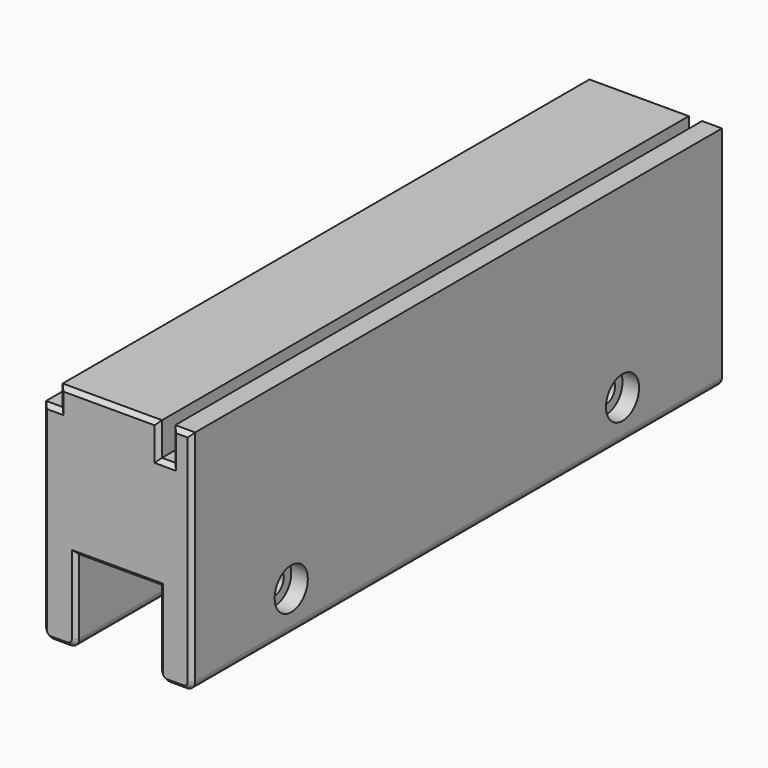
from build123d import *

# Parameters (mm, degrees)
PAD119_DEPTH            = 80
SKETCH530_R             = 2.75
POCKET373_DEPTH         = 8.001
SKETCH531_R             = 5
POCKET374_DEPTH         = 4.001
SKETCH538_W             = 3.2
SKETCH538_H             = 8
POCKET380_DEPTH         = 80.001
POCKET380_DEPTH_BACK    = 80.001
CHAMFER035_SIZE         = 1
BODY190_PLACEMENT_ANGLE = 90


with BuildPart() as part:
    # Sketch529 → Pad119 (new body, symmetric)
    with BuildSketch(Plane.YZ):
        with BuildLine():
            Line((-8, 2), (-8, 55))
            Line((-8, 55), (24, 55))
            Line((24, 55), (24, 50))
            Line((24, 50), (28, 50))
            Line((28, 50), (28, 2))
            ThreePointArc((26, 0), (27.414214, 0.585786), (28, 2))
            Line((26, 0), (22, 0))
            ThreePointArc((20, 2), (20.585786, 0.585786), (22, 0))
            Line((20, 2), (20, 20))
            Line((20, 20), (0, 20))
            Line((0, 20), (0, 2))
            ThreePointArc((-2, 0), (-0.585786, 0.585786), (0, 2))
            Line((-2, 0), (-6, 0))
            ThreePointArc((-8, 2), (-7.414214, 0.585786), (-6, 0))
        make_face()
    extrude(amount=PAD119_DEPTH, both=True)

    # Sketch530 → Pocket373 (cut, through all)
    with BuildSketch(Plane.XZ):
        with Locations((-50, 10)):
            Circle(SKETCH530_R)
        with Locations((50, 10)):
            Circle(SKETCH530_R)
    extrude(amount=POCKET373_DEPTH, mode=Mode.SUBTRACT)

    # Sketch531 → Pocket374 (cut, through all)
    with BuildSketch(Plane.XZ.offset(4)):
        with Locations((50, 10)):
            Circle(SKETCH531_R)
        with Locations((-50, 10)):
            Circle(SKETCH531_R)
    extrude(amount=POCKET374_DEPTH, mode=Mode.SUBTRACT)

    # Sketch538 → Pocket380 (cut, two sides)
    with BuildSketch(Plane.YZ) as pocket380_sk:
        with Locations((-1.6, 51)):
            Rectangle(SKETCH538_W, SKETCH538_H)
    extrude(amount=-POCKET380_DEPTH, mode=Mode.SUBTRACT)
    extrude(pocket380_sk.sketch, amount=POCKET380_DEPTH_BACK, mode=Mode.SUBTRACT)

    # Chamfer035
    chamfer035_edges = [part.edges().sort_by_distance(p)[0] for p in [
        (-80, -4, 0),
        (-80, -7.414214, 0.585786),
        (-80, -8, 28.5),
        (-80, -5.6, 55),
        (-80, -3.2, 51),
        (-80, -1.6, 47),
        (-80, 0, 51),
        (-80, 12, 55),
        (-80, 24, 52.5),
        (-80, 26, 50),
        (-80, 28, 26),
        (-80, 27.414214, 0.585786),
        (-80, 24, 0),
        (-80, 20.585786, 0.585786),
        (-80, 20, 11),
        (-80, 10, 20),
        (-80, 0, 11),
        (-80, -0.585786, 0.585786),
    ]]
    chamfer(chamfer035_edges, length=CHAMFER035_SIZE)


with BuildPart() as part_1:
    # Body190 placement: moved
    add(part.part.moved(Location((170, 0, -220))).rotate(Axis((170, 0, -220), (0, 0, 1)), BODY190_PLACEMENT_ANGLE))


solid = part_1.part
